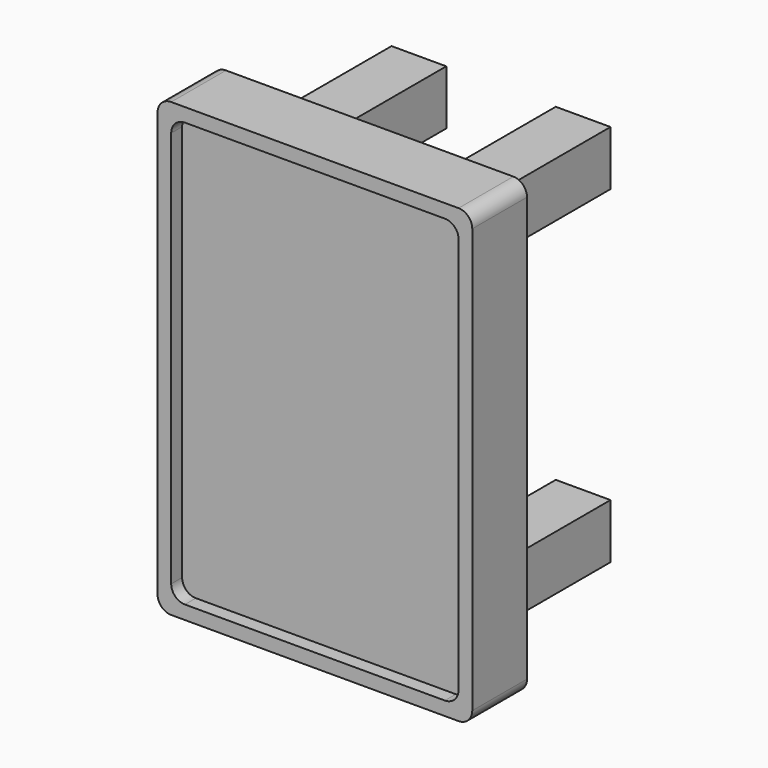
from build123d import *

# Parameters (mm, degrees)
F1_DEPTH = 25.4
F2_DEPTH = 31.75
F3_DEPTH = 76.2


with BuildPart() as f1:
    # F0 (on Front) → F1 (new body)
    with BuildSketch(Plane.XZ):
        with BuildLine():
            ThreePointArc((66.675, 92.075), (64.8151280605, 96.5651280605), (60.325, 98.425))
            Line((60.325, 98.425), (-60.325, 98.425))
            ThreePointArc((-60.325, 98.425), (-64.8151280605, 96.5651280605), (-66.675, 92.075))
            Line((-66.675, 92.075), (-66.675, -92.075))
            ThreePointArc((-66.675, -92.075), (-64.8151280605, -96.5651280605), (-60.325, -98.425))
            Line((-60.325, -98.425), (60.325, -98.425))
            ThreePointArc((60.325, -98.425), (64.8151280605, -96.5651280605), (66.675, -92.075))
            Line((66.675, -92.075), (66.675, 92.075))
        make_face()
        Polygon((-25.4, -63.5), (-25.4, -76.2), (-25.4, -88.9), (-50.8, -88.9), (-50.8, -63.5), align=None, mode=Mode.SUBTRACT)
        Polygon((25.4, -88.9), (25.4, -76.2), (25.4, -63.5), (50.8, -63.5), (50.8, -88.9), align=None, mode=Mode.SUBTRACT)
        Polygon((-25.4, 88.9), (-25.4, 76.2), (-25.4, 63.5), (-50.8, 63.5), (-50.8, 88.9), align=None, mode=Mode.SUBTRACT)
        Polygon((25.4, 63.5), (25.4, 76.2), (25.4, 88.9), (50.8, 88.9), (50.8, 63.5), align=None, mode=Mode.SUBTRACT)
        Polygon((-25.4, 63.5), (-25.4, 76.2), (-25.4, 88.9), (-50.8, 88.9), (-50.8, 63.5), align=None)
        Polygon((25.4, 88.9), (25.4, 76.2), (25.4, 63.5), (50.8, 63.5), (50.8, 88.9), align=None)
        Polygon((25.4, -63.5), (25.4, -76.2), (25.4, -88.9), (50.8, -88.9), (50.8, -63.5), align=None)
        Polygon((-25.4, -88.9), (-25.4, -76.2), (-25.4, -63.5), (-50.8, -63.5), (-50.8, -88.9), align=None)
    extrude(amount=F1_DEPTH)

    # F0 (on Front) → F2 (join)
    with BuildSketch(Plane.XZ):
        with BuildLine():
            ThreePointArc((-73.025, -98.425), (-71.1651280605, -102.9151280605), (-66.675, -104.775))
            Line((-66.675, -104.775), (66.675, -104.775))
            ThreePointArc((66.675, -104.775), (71.1651280605, -102.9151280605), (73.025, -98.425))
            Line((73.025, -98.425), (73.025, 98.425))
            ThreePointArc((73.025, 98.425), (71.1651280605, 102.9151280605), (66.675, 104.775))
            Line((66.675, 104.775), (-66.675, 104.775))
            ThreePointArc((-66.675, 104.775), (-71.1651280605, 102.9151280605), (-73.025, 98.425))
            Line((-73.025, 98.425), (-73.025, -98.425))
        make_face()
        with BuildLine():
            Line((-60.325, 98.425), (60.325, 98.425))
            ThreePointArc((60.325, 98.425), (64.8151280605, 96.5651280605), (66.675, 92.075))
            Line((66.675, 92.075), (66.675, -92.075))
            ThreePointArc((66.675, -92.075), (64.8151280605, -96.5651280605), (60.325, -98.425))
            Line((60.325, -98.425), (-60.325, -98.425))
            ThreePointArc((-60.325, -98.425), (-64.8151280605, -96.5651280605), (-66.675, -92.075))
            Line((-66.675, -92.075), (-66.675, 92.075))
            ThreePointArc((-66.675, 92.075), (-64.8151280605, 96.5651280605), (-60.325, 98.425))
        make_face(mode=Mode.SUBTRACT)
    extrude(amount=F2_DEPTH)


with BuildPart() as f3:
    # F0 (on Front) → F3 (new body)
    with BuildSketch(Plane.XZ):
        Polygon((-25.4, 63.5), (-25.4, 76.2), (-25.4, 88.9), (-50.8, 88.9), (-50.8, 63.5), align=None)
    extrude(amount=-F3_DEPTH)


with BuildPart() as f3b:
    # F0 (on Front) → F3, piece 2 (new body)
    with BuildSketch(Plane.XZ):
        Polygon((25.4, 88.9), (25.4, 76.2), (25.4, 63.5), (50.8, 63.5), (50.8, 88.9), align=None)
    extrude(amount=-F3_DEPTH)


with BuildPart() as f3c:
    # F0 (on Front) → F3, piece 3 (new body)
    with BuildSketch(Plane.XZ):
        Polygon((25.4, -63.5), (25.4, -76.2), (25.4, -88.9), (50.8, -88.9), (50.8, -63.5), align=None)
    extrude(amount=-F3_DEPTH)


with BuildPart() as f3d:
    # F0 (on Front) → F3, piece 4 (new body)
    with BuildSketch(Plane.XZ):
        Polygon((-25.4, -88.9), (-25.4, -76.2), (-25.4, -63.5), (-50.8, -63.5), (-50.8, -88.9), align=None)
    extrude(amount=-F3_DEPTH)


solid = Compound([f1.part, f3.part, f3b.part, f3c.part, f3d.part])
